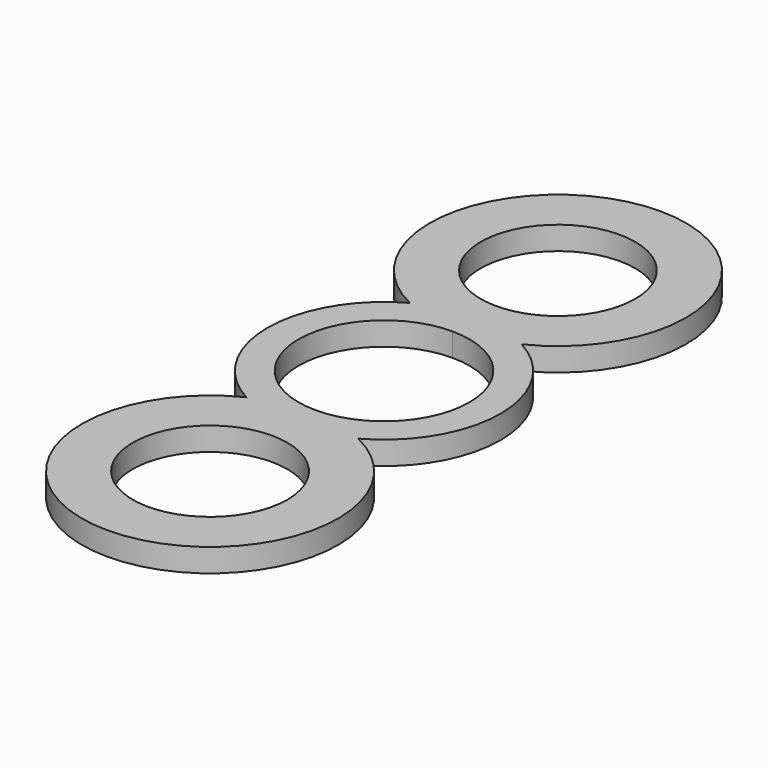
from build123d import *

# Parameters (mm, degrees)
F0_R     = 9.95
F1_DEPTH = 3


with BuildPart() as f1:
    # F0 (on Top) → F1 (new body)
    with BuildSketch(Plane.XY):
        with BuildLine():
            ThreePointArc((7.205074, 13.15625), (0, 44.5), (-7.205074, 13.15625))
            ThreePointArc((-7.205074, 13.15625), (-15, 0), (-7.205074, -13.15625))
            ThreePointArc((-7.205074, -13.15625), (0, -44.5), (7.205074, -13.15625))
            ThreePointArc((7.205074, -13.15625), (15, 0), (7.205074, 13.15625))
        make_face()
        with Locations((0, -28)):
            Circle(F0_R, mode=Mode.SUBTRACT)
        with BuildLine():
            ThreePointArc((0, 11), (7.778175, 7.778175), (11, 0))
            ThreePointArc((11, 0), (7.778175, -7.778175), (0, -11))
            ThreePointArc((0, -11), (-11, 0), (0, 11))
        make_face(mode=Mode.SUBTRACT)
        with Locations((0, 28)):
            Circle(F0_R, mode=Mode.SUBTRACT)
    extrude(amount=F1_DEPTH)


solid = f1.part
